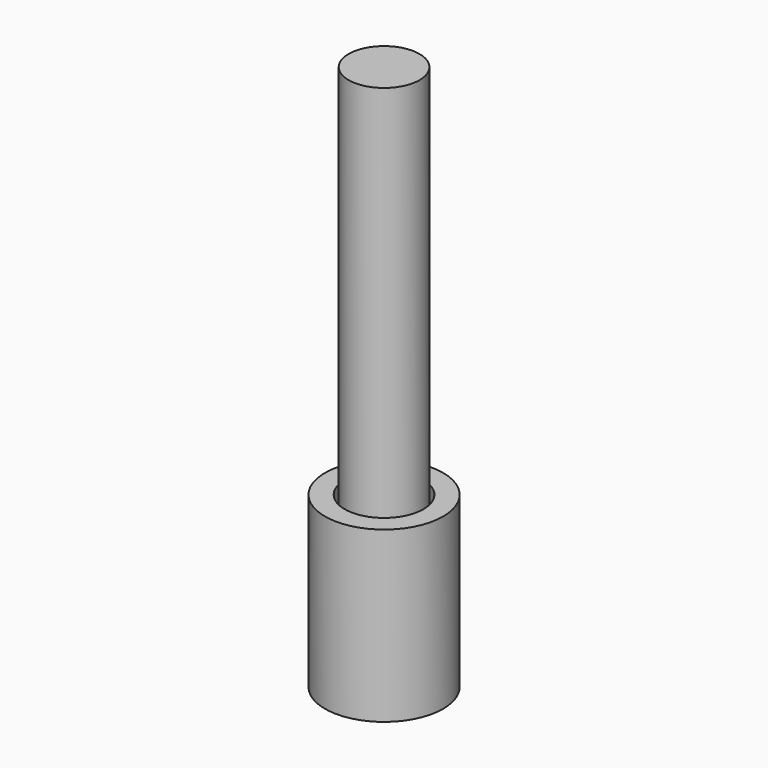
from build123d import *

# Parameters (mm, degrees)
F1_R      = 15
F2_DEPTH  = 43
F5_OFFSET = 1


with BuildPart() as f2:
    # F1 (on Top) → F2 (new body)
    with BuildSketch(Plane.XY):
        Circle(F1_R)
    extrude(amount=F2_DEPTH)


with BuildPart() as f4:
    # F3 (on Front) → F4 (revolve)
    with BuildSketch(Plane.XZ):
        Polygon((0, 138.5983246118), (0, 5), (9, 14), (9, 21), (5, 25), (5, 32), (9, 36), (9, 138.5983246118), (5, 138.5983246118), align=None)
    revolve(axis=Axis((0, 0, 71.7991623059), (0, 0, -1)))


with BuildPart() as f2_1:
    add(f2.part)

    # F5: cut F4, made larger all round first
    f5_tool = offset(f4.part, amount=F5_OFFSET, kind=Kind.INTERSECTION, mode=Mode.PRIVATE)
    add(f5_tool, mode=Mode.SUBTRACT)


solid = Compound([f4.part, f2_1.part])
